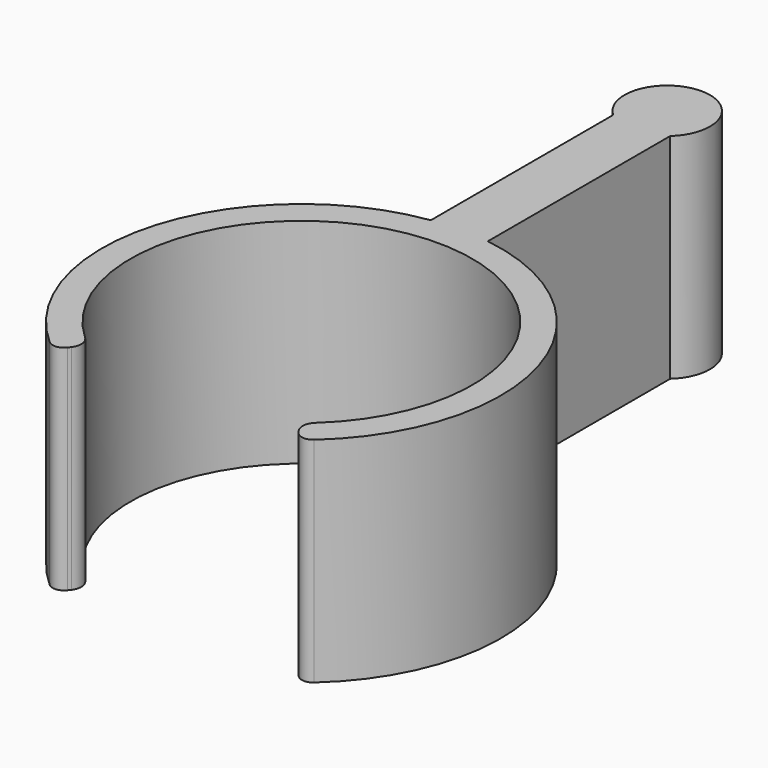
from build123d import *

# Parameters (mm, degrees)
F1_DEPTH = 7.5


with BuildPart() as f1:
    # F0 (on Top) → F1 (new body)
    with BuildSketch(Plane.XY):
        with BuildLine():
            ThreePointArc((4.055896, -5.191311), (4.334412, -5.34336), (4.636016, -5.244746))
            ThreePointArc((4.636016, -5.244746), (6.707186, 2.003412), (1, 6.928203))
            Line((1, 6.928203), (1, 14.928203))
            ThreePointArc((1, 14.928203), (0, 17.546237), (-1, 14.928203))
            Line((-1, 14.928203), (-1, 6.928203))
            ThreePointArc((-1, 6.928203), (-6.707186, 2.003412), (-4.636016, -5.244746))
            ThreePointArc((-4.636016, -5.244746), (-4.334412, -5.34336), (-4.055896, -5.191311))
            Line((-4.055896, -5.191311), (-3.989942, -5.106893))
            ThreePointArc((-3.989942, -5.106893), (-3.885697, -4.757275), (-4.046721, -4.429904))
            ThreePointArc((-4.046721, -4.429904), (0, 6), (4.046721, -4.429904))
            ThreePointArc((4.046721, -4.429904), (3.885697, -4.757275), (3.989942, -5.106893))
            Line((3.989942, -5.106893), (4.055896, -5.191311))
        make_face()
    extrude(amount=F1_DEPTH)


solid = f1.part
